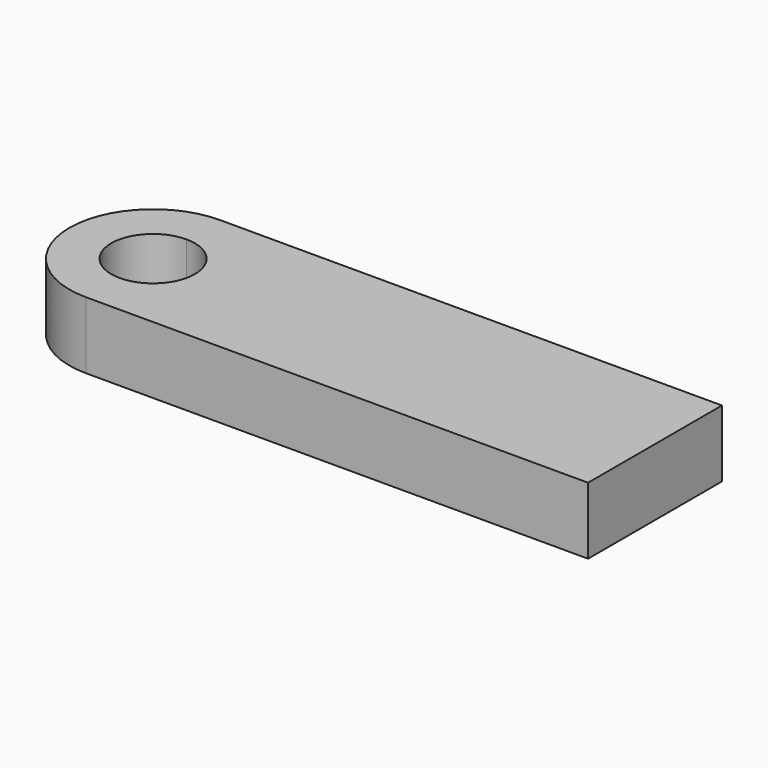
from build123d import *

# Parameters (mm, degrees)
F1_DEPTH = 20


with BuildPart() as f1:
    # F0 (on Top) → F1 (new body)
    with BuildSketch(Plane.XY):
        with BuildLine():
            ThreePointArc((-50, 0), (-57.3223304703, 17.6776695297), (-75, 25))
            Line((-75, 25), (-75, 12.5))
            ThreePointArc((-75, 12.5), (-66.1611652352, 8.8388347648), (-62.5, 0))
            ThreePointArc((-62.5, 0), (-66.1611652352, -8.8388347648), (-75, -12.5))
            Line((-75, -12.5), (-75, -25))
            ThreePointArc((-75, -25), (-57.3223304703, -17.6776695297), (-50, 0))
        make_face()
        with BuildLine():
            Line((75, 25), (-75, 25))
            ThreePointArc((-75, 25), (-57.3223304703, 17.6776695297), (-50, 0))
            ThreePointArc((-50, 0), (-57.3223304703, -17.6776695297), (-75, -25))
            Line((-75, -25), (75, -25))
            Line((75, -25), (75, 25))
        make_face()
        with BuildLine():
            Line((-75, 12.5), (-75, 25))
            ThreePointArc((-75, 25), (-100, 0), (-75, -25))
            Line((-75, -25), (-75, -12.5))
            ThreePointArc((-75, -12.5), (-87.5, 0), (-75, 12.5))
        make_face()
    extrude(amount=F1_DEPTH)


solid = f1.part
